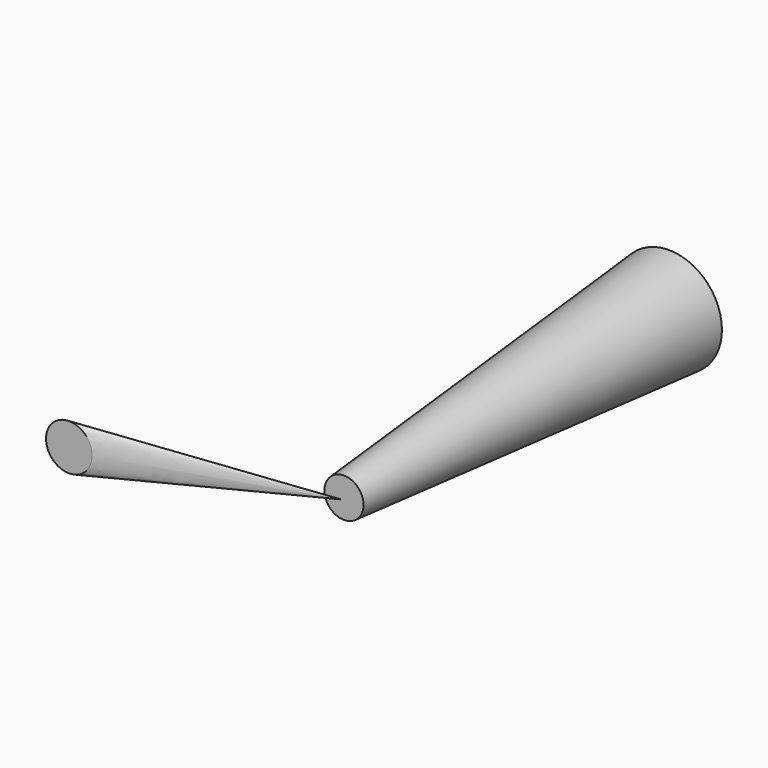
from build123d import *

# Parameters (mm, degrees)
F2_R = 12.2430055564
F0_R = 33.1597885282
F6_R = 14.3953210768


with BuildPart() as f3:
    # F2 (on offset) → F3 section 0
    with BuildSketch(Plane.XZ.offset(254)):
        Circle(F2_R)
    # F0 (on Front) → F3 section 1
    with BuildSketch(Plane.XZ):
        Circle(F0_R)
    loft()


with BuildPart() as f7:
    # F6 (on plane+point) → F7 section 0
    with BuildSketch(Plane.XZ.offset(296.1702644825), mode=Mode.PRIVATE) as f7_s0:
        with Locations((-138.2151991129, 0)):
            Circle(F6_R)
    loft([f7_s0.sketch, Vertex(0, -256.2560141087, 0)])


solid = Compound([f3.part, f7.part])
